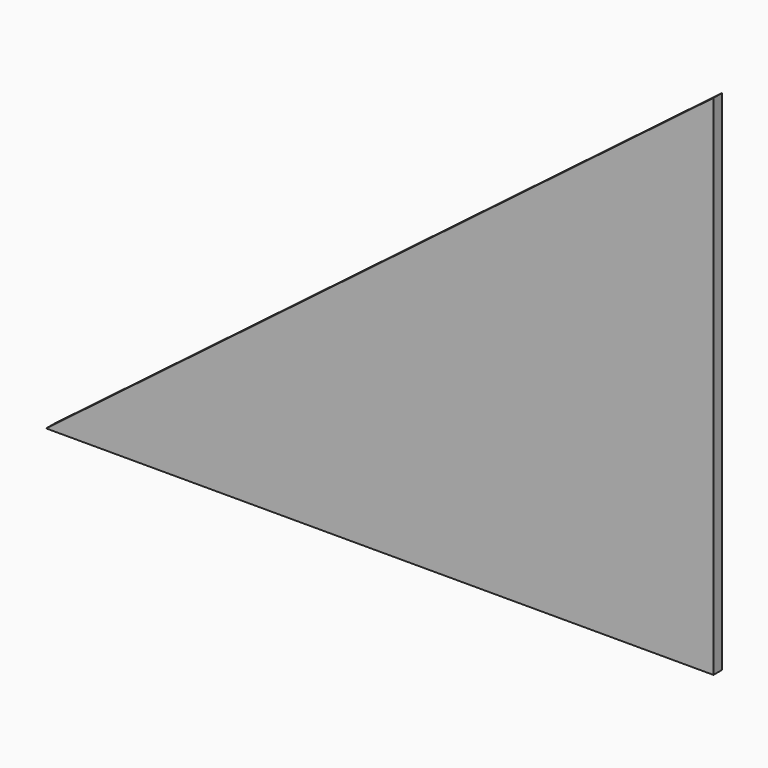
from build123d import *

# Parameters (mm, degrees)
F2_DEPTH = 6.35


with BuildPart() as f2:
    # F1 (on face) → F2 (new body)
    with BuildSketch(Plane.XZ):
        Polygon((0, 0), (0, 304.8), (-400.485192, 0), align=None)
    extrude(amount=F2_DEPTH)


solid = f2.part
